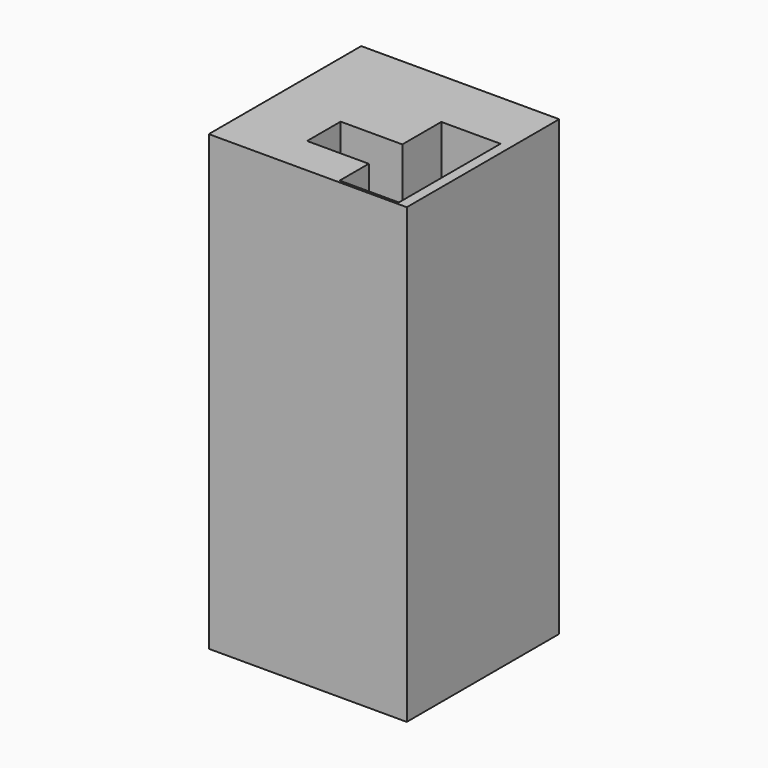
from build123d import *

# Parameters (mm, degrees)
F0_W     = 65.545023
F0_H     = 63.094743
F1_DEPTH = 150


with BuildPart() as f1:
    # F0 (on Top) → F1 (new body)
    with BuildSketch(Plane.XY):
        with Locations((10.51578, 4.798461)):
            Rectangle(F0_W, F0_H)
        Polygon((20.419002, -25.932148), (20.419002, -13.884917), (0, -13.884917), (0, 0), (20.419002, 0), (20.419002, 16.131014), (40.021241, 16.131014), (40.021241, -25.932148), align=None, mode=Mode.SUBTRACT)
    extrude(amount=F1_DEPTH)


solid = f1.part
